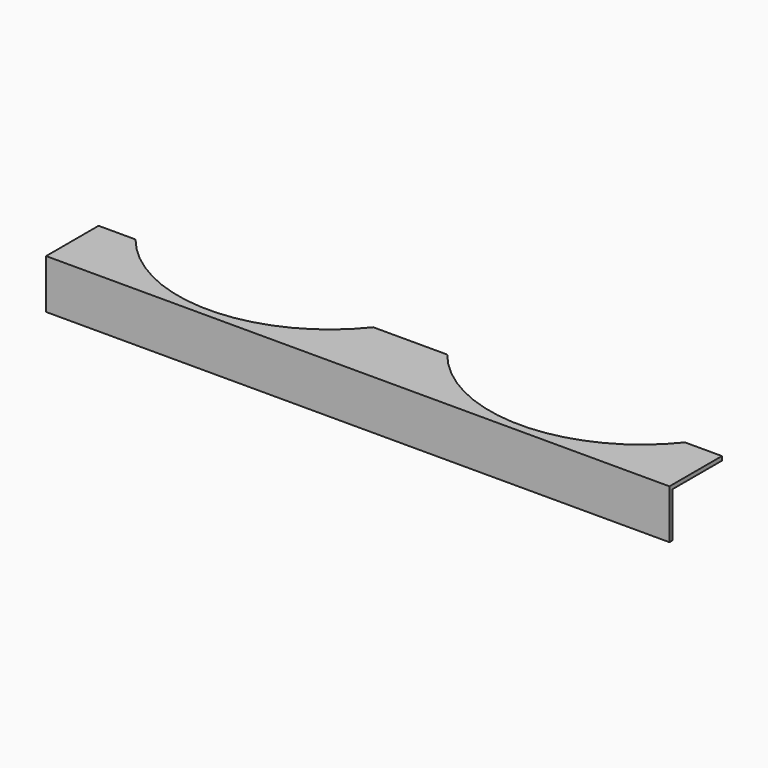
from build123d import *

# Parameters (mm, degrees)
F1_DEPTH = 3.175
F0_W     = 482.6
F0_H     = 3.175
F2_DEPTH = 38.1


with BuildPart() as f1:
    # F0 (on Top) → F1 (new body)
    with BuildSketch(Plane.XY):
        with BuildLine():
            Line((-241.3, -23.8125), (241.3, -23.8125))
            Line((241.3, -23.8125), (241.3, 23.8125))
            Line((241.3, 23.8125), (212.6702423383, 23.8125))
            ThreePointArc((212.6702423383, 23.8125), (120.65, -20.6375), (28.6297576617, 23.8125))
            Line((28.6297576617, 23.8125), (-28.6297576617, 23.8125))
            ThreePointArc((-28.6297576617, 23.8125), (-120.65, -20.6375), (-212.6702423383, 23.8125))
            Line((-212.6702423383, 23.8125), (-241.3, 23.8125))
            Line((-241.3, 23.8125), (-241.3, -23.8125))
        make_face()
    extrude(amount=-F1_DEPTH)

    # F0 (on Top) → F2 (join)
    with BuildSketch(Plane.XY):
        with Locations((0, -25.4)):
            Rectangle(F0_W, F0_H)
    extrude(amount=-F2_DEPTH)


solid = f1.part
